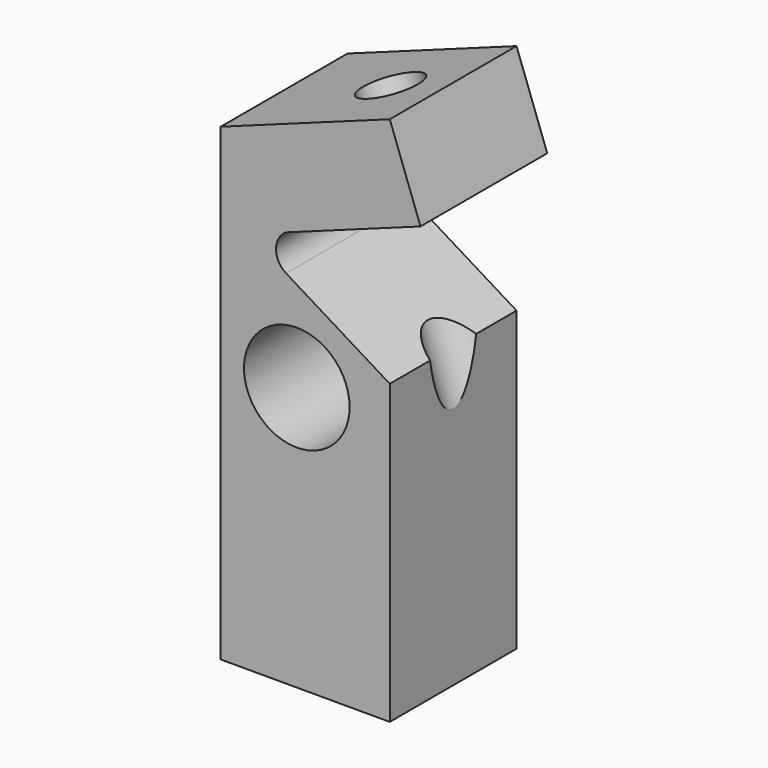
from build123d import *

# Parameters (mm, degrees)
F0_R     = 5
F1_DEPTH = 15
F3_D     = 5.5
F4_R     = 2
F5_DEPTH = 5
F6_D     = 4.4
F6_DEPTH = 8
F6_TIP   = 1.3218933619
F7_R     = 3
F8_DEPTH = 25


with BuildPart() as f1:
    # F0 (on Front) → F1 (new body)
    with BuildSketch(Plane.XZ):
        with BuildLine():
            Line((0, 44.4), (0, 0))
            Line((0, 0), (16, 0))
            Line((16, 0), (16, 28.1794662359))
            Line((16, 28.1794662359), (6.183998533, 34.1947196713))
            ThreePointArc((6.183998533, 34.1947196713), (5.2289956624, 35.9), (6.183998533, 37.6052803287))
            Line((6.183998533, 37.6052803287), (18.9071712183, 42.2361364716))
            Line((18.9071712183, 42.2361364716), (16, 50.2235237483))
            Line((16, 50.2235237483), (0, 44.4))
        make_face()
        with Locations((7.2, 25)):
            Circle(F0_R, mode=Mode.SUBTRACT)
    extrude(amount=F1_DEPTH)

    # F3 (through all)
    with Locations(Plane(origin=(-14.269884935, 0, 39.2061866372), x_dir=(0.9396926208, 0, 0.3420201433), z_dir=(-0.3420201433, 0, 0.9396926208))):
        with Locations((25.9125387233, -7.5)):
            Hole(F3_D / 2)

    # F4 (on face) → F5 (cut)
    with BuildSketch(Plane(origin=(0, 0, 0), x_dir=(1, 0, 0), z_dir=(0, 0, -1))):
        with Locations((3.5, 7.5)):
            Circle(F4_R)
    extrude(amount=-F5_DEPTH, mode=Mode.SUBTRACT)

    # F6
    with Locations(Plane(origin=(0, 0, 0), x_dir=(1, 0, 0), z_dir=(0, 0, -1))):
        with Locations((8, 12.5), (8, 2.5)):
            Hole(F6_D / 2, depth=F6_DEPTH)
            with Locations((0, 0, -(F6_DEPTH + F6_TIP / 2))):  # 118° drill point
                Cone(0, F6_D / 2, F6_TIP, mode=Mode.SUBTRACT)

    # F7 (on face) → F8 (cut)
    with BuildSketch(Plane(origin=(-11.3627137168, 0, 31.2187993606), x_dir=(0.9396926208, 0, 0.3420201433), z_dir=(0.3420201433, 0, -0.9396926208))):
        with Locations((25.9125387233, 7.5)):
            Circle(F7_R)
    extrude(amount=F8_DEPTH, mode=Mode.SUBTRACT)


solid = f1.part
